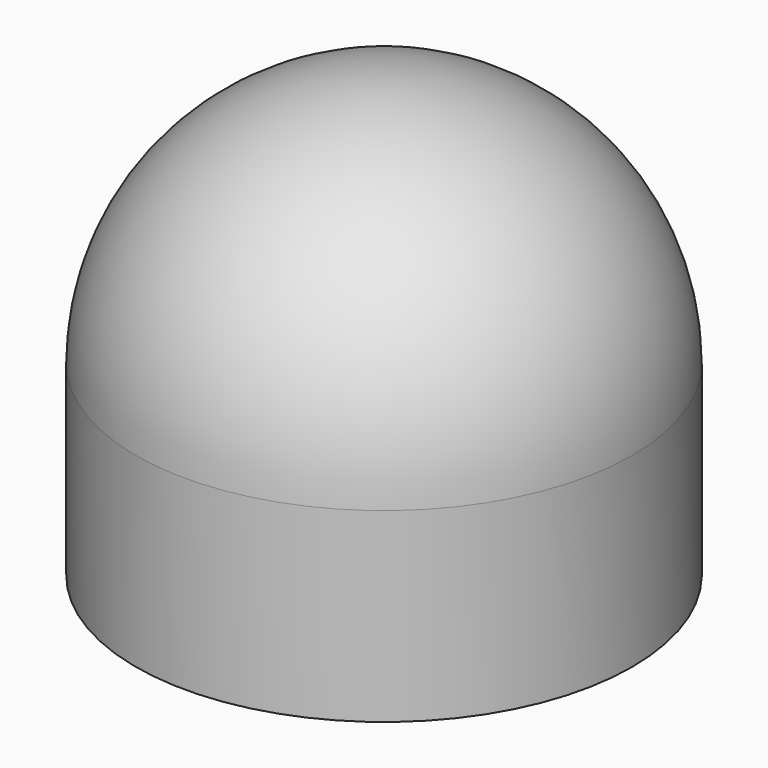
from build123d import *

# Parameters (mm, degrees)
F2_T = -2


with BuildPart() as f1:
    # F0 (on Front) → F1 (revolve)
    with BuildSketch(Plane.XZ):
        with BuildLine():
            Line((0, 30), (0, 0))
            Line((0, 0), (40, 0))
            Line((40, 0), (40, 70))
            ThreePointArc((40, 70), (11.7157287525, 58.2842712475), (0, 30))
        make_face()
    revolve(axis=Axis((40, 0, 43.7611937523), (0, 0, 1)))

    # F2
    f2_openings = [f1.faces().sort_by_distance(p)[0] for p in [
        (40, 0, 0),
    ]]
    offset(amount=F2_T, openings=f2_openings)


solid = f1.part
